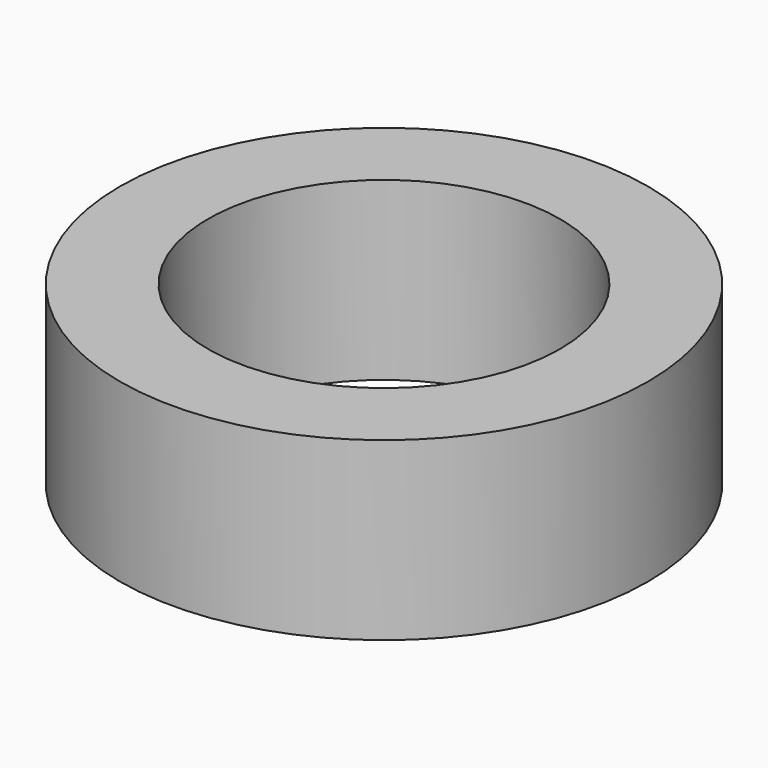
from build123d import *

# Parameters (mm, degrees)
SKETCH_R     = 3
PAD_DEPTH    = 2
SKETCH001_R  = 2
POCKET_DEPTH = 5


with BuildPart() as part:
    # Sketch → Pad (new body)
    with BuildSketch(Plane.XY):
        with Locations((3, 3)):
            Circle(SKETCH_R)
    extrude(amount=PAD_DEPTH)

    # Sketch001 (on Face3 of Pad) → Pocket (cut)
    with BuildSketch(Plane.XY.offset(2)):
        with Locations((3, 3)):
            Circle(SKETCH001_R)
    extrude(amount=-POCKET_DEPTH, mode=Mode.SUBTRACT)


solid = part.part
